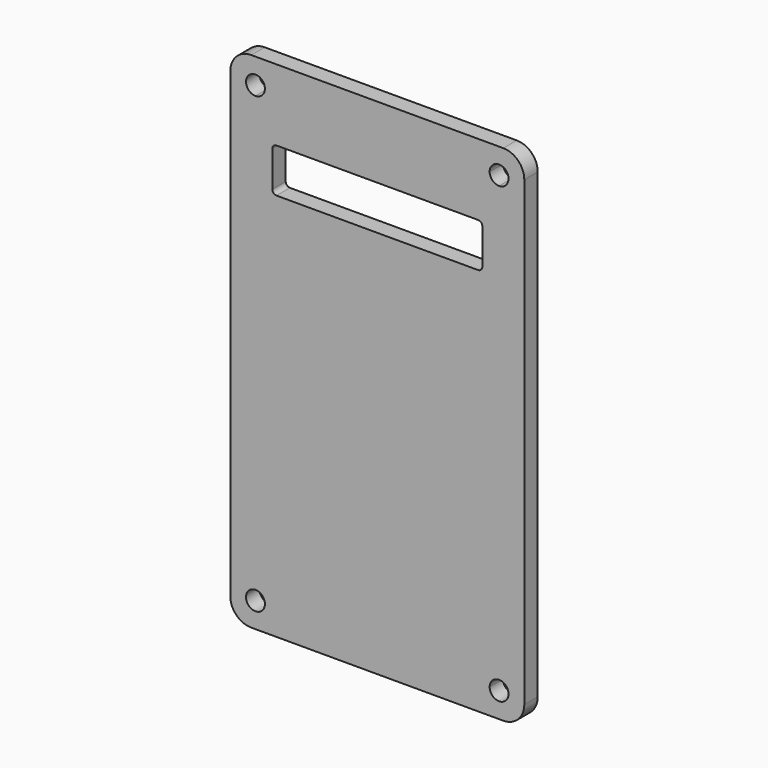
from build123d import *

# Parameters (mm, degrees)
F0_W     = 70
F0_H     = 120
F1_DEPTH = 4
F2_R     = 5
F3_W     = 50
F3_H     = 10.5
F4_DEPTH = 25
F5_R     = 1


with BuildPart() as f1:
    # F0 (on Front) → F1 (new body)
    with BuildSketch(Plane.XZ):
        Rectangle(F0_W, F0_H)
        with BuildLine():
            ThreePointArc((-29, 51.75), (-30.5909902577, 55.5909902577), (-26.75, 54))
            Line((-26.75, 54), (26.75, 54))
            ThreePointArc((26.75, 54), (29, 56.25), (31.25, 54))
            ThreePointArc((31.25, 54), (30.5909902577, 52.4090097423), (29, 51.75))
            Line((29, 51.75), (29, -51.75))
            ThreePointArc((29, -51.75), (30.5909902577, -52.4090097423), (31.25, -54))
            ThreePointArc((31.25, -54), (29, -56.25), (26.75, -54))
            Line((26.75, -54), (-26.75, -54))
            ThreePointArc((-26.75, -54), (-30.5909902577, -55.5909902577), (-29, -51.75))
            Line((-29, -51.75), (-29, 51.75))
        make_face(mode=Mode.SUBTRACT)
        with BuildLine():
            Line((26.75, 54), (-26.75, 54))
            ThreePointArc((-26.75, 54), (-27.4090097423, 52.4090097423), (-29, 51.75))
            Line((-29, 51.75), (-29, -51.75))
            ThreePointArc((-29, -51.75), (-27.4090097423, -52.4090097423), (-26.75, -54))
            Line((-26.75, -54), (26.75, -54))
            ThreePointArc((26.75, -54), (27.4090097423, -52.4090097423), (29, -51.75))
            Line((29, -51.75), (29, 51.75))
            ThreePointArc((29, 51.75), (27.4090097423, 52.4090097423), (26.75, 54))
        make_face()
    extrude(amount=F1_DEPTH)

    # F2
    f2_edges = [f1.edges().sort_by_distance(p)[0] for p in [
        (-35, -2, 60),
        (35, -2, 60),
        (-35, -2, -60),
        (35, -2, -60),
    ]]
    fillet(f2_edges, radius=F2_R)

    # F3 (on face) → F4 (cut)
    with BuildSketch(Plane.XZ.offset(4)):
        with Locations((0, 37.75)):
            Rectangle(F3_W, F3_H)
    extrude(amount=-F4_DEPTH, mode=Mode.SUBTRACT)

    # F5
    f5_edges = [f1.edges().sort_by_distance(p)[0] for p in [
        (-25, -2, 32.5),
        (-25, -2, 43),
        (25, -2, 43),
        (25, -2, 32.5),
    ]]
    fillet(f5_edges, radius=F5_R)


solid = f1.part
